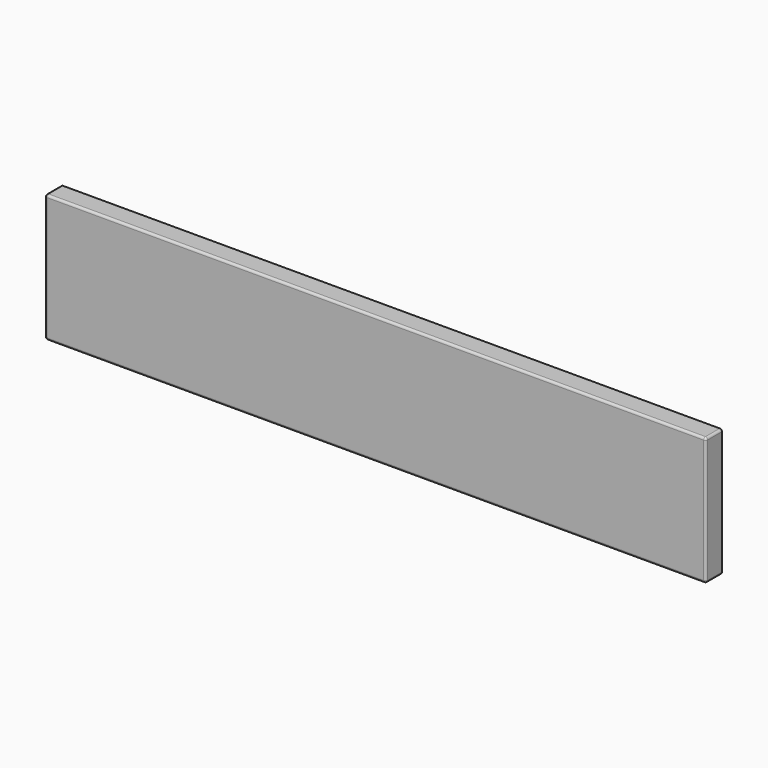
from build123d import *

# Parameters (mm, degrees)
F0_W     = 594
F0_H     = 115
F1_DEPTH = 9
F2_R     = 2


with BuildPart() as f1:
    # F0 (on Front) → F1 (new body, symmetric)
    with BuildSketch(Plane.XZ):
        Rectangle(F0_W, F0_H)
    extrude(amount=F1_DEPTH, both=True)

    # F2
    f2_edges = [f1.edges().sort_by_distance(p)[0] for p in [
        (297, -9, 0),
        (0, -9, 57.5),
        (-297, -9, 0),
        (0, -9, -57.5),
        (-297, 0, 57.5),
        (-297, 0, -57.5),
        (297, 0, 57.5),
        (297, 0, -57.5),
    ]]
    fillet(f2_edges, radius=F2_R)


solid = f1.part
